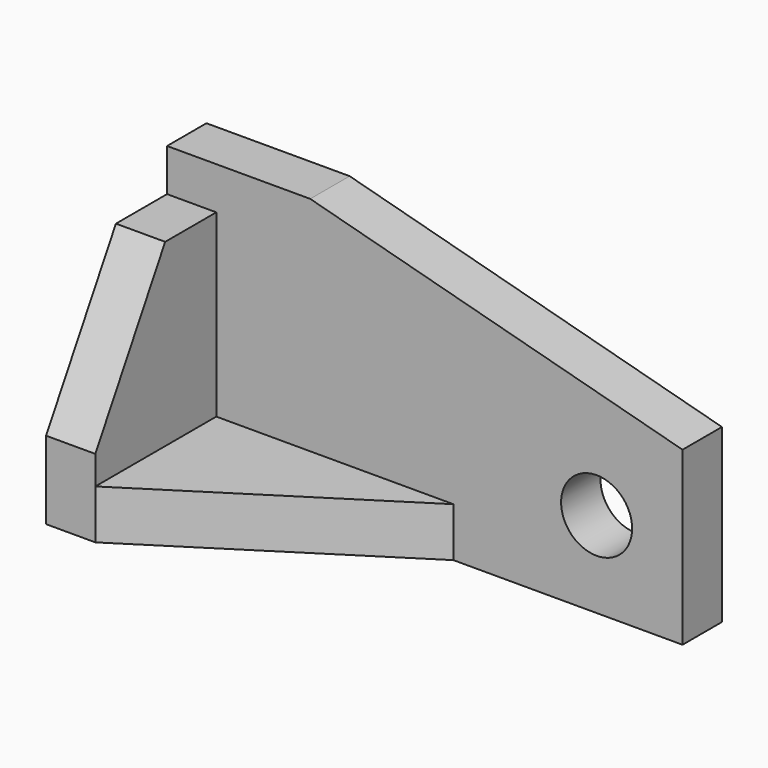
from build123d import *

# Parameters (mm, degrees)
F0_R     = 7.874
F0_W     = 52.578
F0_H     = 10.922
F0_W_2   = 10.922
F0_H_2   = 28.702
F1_DEPTH = 10.922
F2_DEPTH = 44.45
F4_DEPTH = 25.4
F6_DEPTH = 25.4


with BuildPart() as f1:
    # F0 (on Front) → F1 (new body)
    with BuildSketch(Plane.XZ):
        Polygon((-23.531156, 38.796304), (-55.281156, 38.796304), (-55.281156, 29.398304), (-44.359156, 29.398304), (-44.359156, 0.696304), (-44.359156, -10.479696), (8.218844, -10.479696), (8.218844, -21.401696), (59.018844, -21.401696), (59.018844, 16.677098), align=None)
        with Locations((39.968844, -2.351696)):
            Circle(F0_R, mode=Mode.SUBTRACT)
        Polygon((-44.359156, 0.696304), (-55.281156, 0.696304), (-55.281156, -21.401696), (-44.359156, -21.401696), (-44.359156, -10.479696), align=None)
        with Locations((-18.070156, -15.940696)):
            Rectangle(F0_W, F0_H)
        with Locations((-49.820156, 15.047304)):
            Rectangle(F0_W_2, F0_H_2)
    extrude(amount=F1_DEPTH)

    # F0 (on Front) → F2 (join)
    with BuildSketch(Plane.XZ):
        Polygon((-44.359156, 0.696304), (-55.281156, 0.696304), (-55.281156, -21.401696), (-44.359156, -21.401696), (-44.359156, -10.479696), align=None)
        with Locations((-49.820156, 15.047304)):
            Rectangle(F0_W_2, F0_H_2)
        with Locations((-18.070156, -15.940696)):
            Rectangle(F0_W, F0_H)
    extrude(amount=F2_DEPTH)

    # F3 (on face) → F4 (cut)
    with BuildSketch(Plane.XY.offset(-10.479696)):
        Polygon((8.218844, -10.922), (-44.359156, -44.45), (8.218844, -44.45), align=None)
    extrude(amount=-F4_DEPTH, mode=Mode.SUBTRACT)

    # F5 (on face) → F6 (cut)
    with BuildSketch(Plane.YZ.offset(-44.359156)):
        Polygon((-44.45, 29.398304), (-44.45, -4.129696), (-25.0926, 29.398304), align=None)
    extrude(amount=-F6_DEPTH, mode=Mode.SUBTRACT)


solid = f1.part
